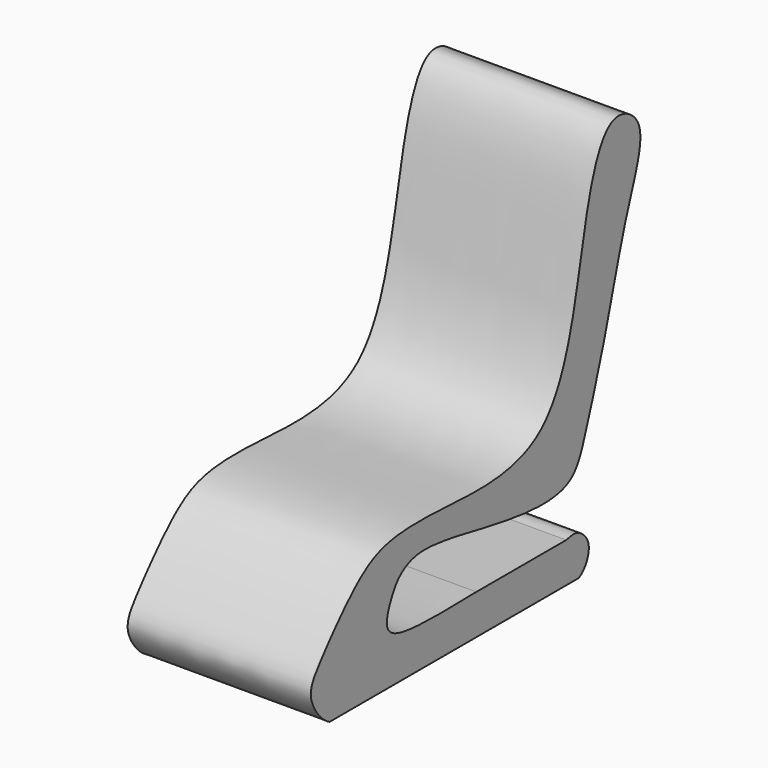
from build123d import *

# Parameters (mm, degrees)
F1_DEPTH = 50


with BuildPart() as f1:
    # F0 (on Right) → F1 (new body)
    with BuildSketch(Plane.YZ):
        with BuildLine():
            add(Edge.make_bspline(
                [(-50.1034325361, -56.5272420645), (-52.728214737, -55.2136730202), (-58.4797865192, -48.1197021264), (-53.7381106677, -41.0907493642), (-46.1583443508, -32.2724729737), (-38.8849351774, -25.1020109466), (-30.2299701649, -20.6898513984), (-11.3325285926, -20.4760532107), (29.4560249654, -24.4066273445), (35.4178338975, 25.386015954), (44.0058615796, 53.1639094538), (59.3775805918, 44.5421907757), (50.7374524954, 24.5624127552), (44.9863632996, 0.5606010801), (37.3375769316, -22.7960444979), (32.0970651305, -36.3159272719), (2.1554274004, -31.5422966897), (-18.413013791, -26.9878892249), (-25.9116655936, -30.4059535017), (-28.9042875645, -34.6365893665), (-32.6902266414, -44.4173732064), (-17.919028865, -46.1128937037), (-6.4117736775, -45.7667795443), (0, -45.646943152)],
                knots=[0, 0, 0, 0, 0.038469156, 0.0709732307, 0.1121419029, 0.150209949, 0.1856443436, 0.237923303, 0.3071713138, 0.3877215881, 0.4465824342, 0.4832008817, 0.5351649214, 0.5970415076, 0.6562410422, 0.6965879865, 0.7597291964, 0.8157456653, 0.8469247746, 0.8744662626, 0.9073105179, 0.9475625752, 1, 1, 1, 1], degree=3))
            Line((-50.1034325361, -56.5272420645), (34.8965674639, -56.5272420645))
            add(Edge.make_bspline(
                [(30.6801613686, -45.646943152), (32.4906593848, -45.2244235935), (34.9073140411, -44.879498752), (40.0564386981, -49.8888335412), (36.9783918631, -55.6589230014), (34.8965674639, -56.5272420645)],
                knots=[0, 0, 0, 0, 0.2880802467, 0.6224192416, 1, 1, 1, 1], degree=3))
            Line((30.6801613686, -45.646943152), (0, -45.646943152))
        make_face()
    extrude(amount=F1_DEPTH)


solid = f1.part
